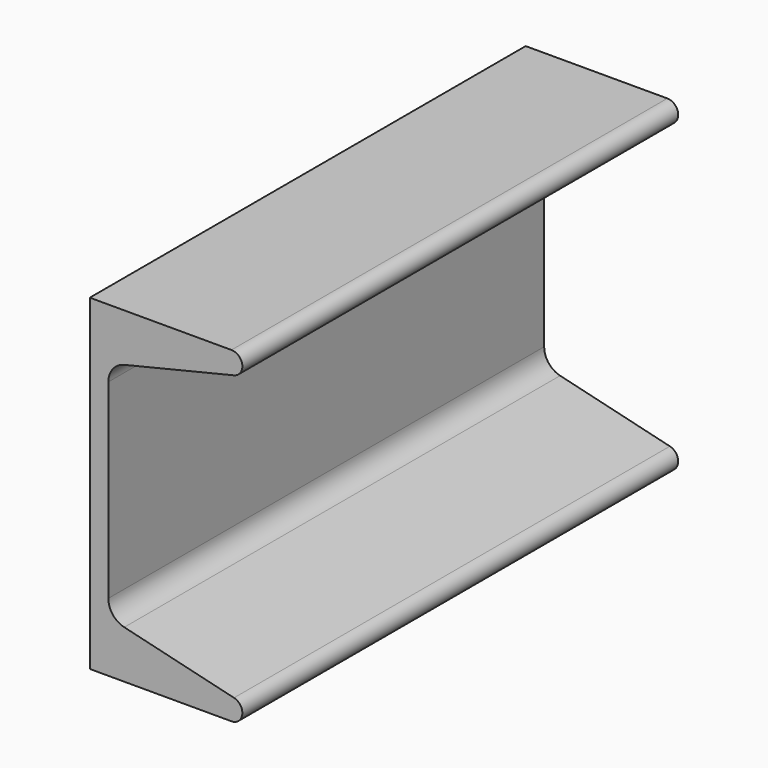
from build123d import *

# Parameters (mm, degrees)
F1_DEPTH = 63.5


with BuildPart() as f1:
    # F0 (on Front) → F1 (new body, symmetric)
    with BuildSketch(Plane.XZ):
        with BuildLine():
            Line((0, 38.1), (0, 0))
            Line((0, 0), (0, -38.1))
            Line((0, -38.1), (33.02, -38.1))
            ThreePointArc((33.02, -38.1), (35.542254, -35.859726), (33.615264, -33.090737))
            Line((33.615264, -33.090737), (8.032447, -26.923505))
            ThreePointArc((8.032447, -26.923505), (5.358108, -25.2089), (4.318, -22.207212))
            Line((4.318, -22.207212), (4.318, 0))
            Line((4.318, 0), (4.318, 22.207212))
            ThreePointArc((4.318, 22.207212), (5.358108, 25.2089), (8.032447, 26.923505))
            Line((8.032447, 26.923505), (33.615264, 33.090737))
            ThreePointArc((33.615264, 33.090737), (35.542254, 35.859726), (33.02, 38.1))
            Line((33.02, 38.1), (0, 38.1))
        make_face()
    extrude(amount=F1_DEPTH, both=True)


solid = f1.part
